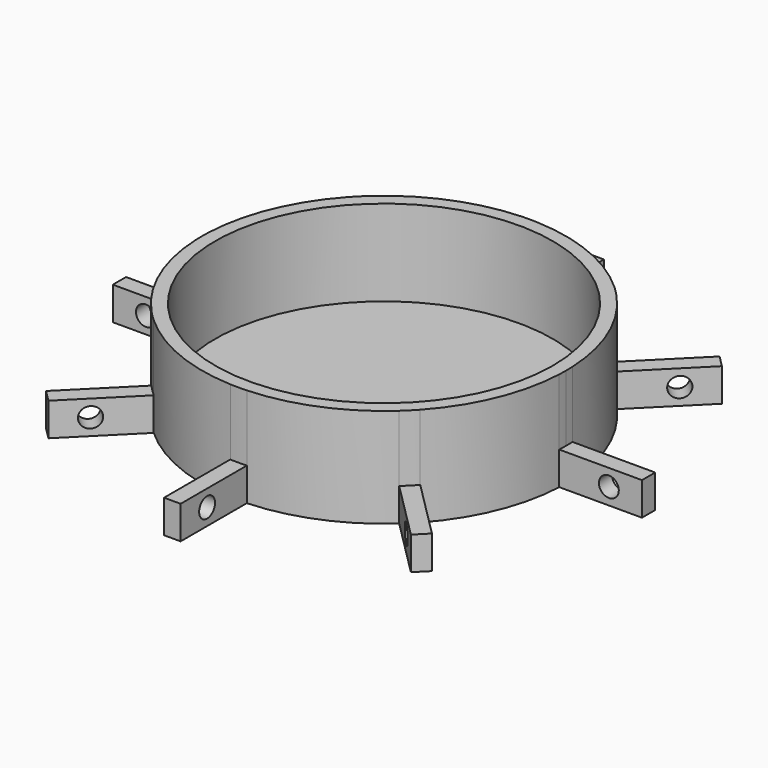
from build123d import *

# Parameters (mm, degrees)
F1_DEPTH  = 15
F2_R      = 25.5
F3_DEPTH  = 13
F4_DEPTH  = 5
F6_DEPTH  = 25
F8_DEPTH  = 25
F10_DEPTH = 25
F12_DEPTH = 25
F14_DEPTH = 25
F16_DEPTH = 25
F18_DEPTH = 25
F20_DEPTH = 25


with BuildPart() as f1:
    # F0 (on Top) → F1 (new body)
    with BuildSketch(Plane.XY):
        with BuildLine():
            ThreePointArc((27.4715762198, -1.25), (27.4928931366, -0.6251615614), (27.5, 0))
            ThreePointArc((27.5, 0), (27.4928931366, 0.6251615614), (27.4715762198, 1.25))
            ThreePointArc((27.4715762198, 1.25), (25.4066871441, 10.52379439), (20.3092213114, 18.5414543584))
            ThreePointArc((20.3092213114, 18.5414543584), (19.4454364826, 19.4454364826), (18.5414543584, 20.3092213114))
            ThreePointArc((18.5414543584, 20.3092213114), (10.52379439, 25.4066871441), (1.25, 27.4715762198))
            ThreePointArc((1.25, 27.4715762198), (0, 27.5), (-1.25, 27.4715762198))
            ThreePointArc((-1.25, 27.4715762198), (-10.52379439, 25.4066871441), (-18.5414543584, 20.3092213114))
            ThreePointArc((-18.5414543584, 20.3092213114), (-19.4454364826, 19.4454364826), (-20.3092213114, 18.5414543584))
            ThreePointArc((-20.3092213114, 18.5414543584), (-25.4066871441, 10.52379439), (-27.4715762198, 1.25))
            ThreePointArc((-27.4715762198, 1.25), (-27.5, 0), (-27.4715762198, -1.25))
            ThreePointArc((-27.4715762198, -1.25), (-25.4066871441, -10.52379439), (-20.3092213114, -18.5414543584))
            ThreePointArc((-20.3092213114, -18.5414543584), (-19.4454364826, -19.4454364826), (-18.5414543584, -20.3092213114))
            ThreePointArc((-18.5414543584, -20.3092213114), (-10.52379439, -25.4066871441), (-1.25, -27.4715762198))
            ThreePointArc((-1.25, -27.4715762198), (0, -27.5), (1.25, -27.4715762198))
            ThreePointArc((1.25, -27.4715762198), (10.52379439, -25.4066871441), (18.5414543584, -20.3092213114))
            ThreePointArc((18.5414543584, -20.3092213114), (19.4454364826, -19.4454364826), (20.3092213114, -18.5414543584))
            ThreePointArc((20.3092213114, -18.5414543584), (25.4066871441, -10.52379439), (27.4715762198, -1.25))
        make_face()
    extrude(amount=F1_DEPTH)

    # F2 (on face) → F3 (cut)
    with BuildSketch(Plane.XY.offset(15)):
        Circle(F2_R)
    extrude(amount=-F3_DEPTH, mode=Mode.SUBTRACT)

    # F0 (on Top) → F4 (join)
    with BuildSketch(Plane.XY):
        with BuildLine():
            ThreePointArc((-1.25, 27.4715762198), (0, 27.5), (1.25, 27.4715762198))
            Line((1.25, 27.4715762198), (1.25, 39.9715762198))
            Line((1.25, 39.9715762198), (-1.25, 39.9715762198))
            Line((-1.25, 39.9715762198), (-1.25, 27.4715762198))
        make_face()
        with BuildLine():
            ThreePointArc((-20.3092213114, 18.5414543584), (-19.4454364826, 19.4454364826), (-18.5414543584, 20.3092213114))
            Line((-18.5414543584, 20.3092213114), (-27.3802891232, 29.1480560762))
            Line((-27.3802891232, 29.1480560762), (-29.1480560762, 27.3802891232))
            Line((-29.1480560762, 27.3802891232), (-20.3092213114, 18.5414543584))
        make_face()
        with BuildLine():
            ThreePointArc((-27.4715762198, -1.25), (-27.5, 0), (-27.4715762198, 1.25))
            Line((-27.4715762198, 1.25), (-39.9715762198, 1.25))
            Line((-39.9715762198, 1.25), (-39.9715762198, -1.25))
            Line((-39.9715762198, -1.25), (-27.4715762198, -1.25))
        make_face()
        with BuildLine():
            Line((-27.3802891232, -29.1480560762), (-18.5414543584, -20.3092213114))
            ThreePointArc((-18.5414543584, -20.3092213114), (-19.4454364826, -19.4454364826), (-20.3092213114, -18.5414543584))
            Line((-20.3092213114, -18.5414543584), (-29.1480560762, -27.3802891232))
            Line((-29.1480560762, -27.3802891232), (-27.3802891232, -29.1480560762))
        make_face()
        with BuildLine():
            Line((1.25, -39.9715762198), (1.25, -27.4715762198))
            ThreePointArc((1.25, -27.4715762198), (0, -27.5), (-1.25, -27.4715762198))
            Line((-1.25, -27.4715762198), (-1.25, -39.9715762198))
            Line((-1.25, -39.9715762198), (1.25, -39.9715762198))
        make_face()
        with BuildLine():
            Line((29.1480560762, -27.3802891232), (20.3092213114, -18.5414543584))
            ThreePointArc((20.3092213114, -18.5414543584), (19.4454364826, -19.4454364826), (18.5414543584, -20.3092213114))
            Line((18.5414543584, -20.3092213114), (27.3802891232, -29.1480560762))
            Line((27.3802891232, -29.1480560762), (29.1480560762, -27.3802891232))
        make_face()
        with BuildLine():
            ThreePointArc((27.4715762198, 1.25), (27.4928931366, 0.6251615614), (27.5, 0))
            ThreePointArc((27.5, 0), (27.4928931366, -0.6251615614), (27.4715762198, -1.25))
            Line((27.4715762198, -1.25), (39.9715762198, -1.25))
            Line((39.9715762198, -1.25), (39.9715762198, 1.25))
            Line((39.9715762198, 1.25), (27.4715762198, 1.25))
        make_face()
        with BuildLine():
            ThreePointArc((18.5414543584, 20.3092213114), (19.4454364826, 19.4454364826), (20.3092213114, 18.5414543584))
            Line((20.3092213114, 18.5414543584), (29.1480560762, 27.3802891232))
            Line((29.1480560762, 27.3802891232), (27.3802891232, 29.1480560762))
            Line((27.3802891232, 29.1480560762), (18.5414543584, 20.3092213114))
        make_face()
    extrude(amount=F4_DEPTH)

    # F5 (on face) → F6 (cut)
    with BuildSketch(Plane.YZ.offset(1.25)):
        with BuildLine():
            ThreePointArc((-33.4715762198, 2.5), (-34.9715762198, 4), (-36.4715762198, 2.5))
            ThreePointArc((-36.4715762198, 2.5), (-34.9715762198, 1), (-33.4715762198, 2.5))
        make_face()
    extrude(amount=-F6_DEPTH, mode=Mode.SUBTRACT)

    # F7 (on face) → F8 (cut)
    with BuildSketch(Plane(origin=(0.8838834765, -0.8838834765, 0), x_dir=(0.7071067812, 0.7071067812, 0), z_dir=(0.7071067812, -0.7071067812, 0))):
        with BuildLine():
            ThreePointArc((-33.4715762198, 2.5), (-34.9715762198, 4), (-36.4715762198, 2.5))
            ThreePointArc((-36.4715762198, 2.5), (-34.9715762198, 1), (-33.4715762198, 2.5))
        make_face()
    extrude(amount=-F8_DEPTH, mode=Mode.SUBTRACT)

    # F9 (on face) → F10 (cut)
    with BuildSketch(Plane.XZ.offset(1.25)):
        with BuildLine():
            ThreePointArc((-33.4715762198, 2.5), (-34.9715762198, 4), (-36.4715762198, 2.5))
            ThreePointArc((-36.4715762198, 2.5), (-34.9715762198, 1), (-33.4715762198, 2.5))
        make_face()
    extrude(amount=-F10_DEPTH, mode=Mode.SUBTRACT)

    # F11 (on face) → F12 (cut)
    with BuildSketch(Plane(origin=(-0.8838834765, -0.8838834765, 0), x_dir=(0.7071067812, -0.7071067812, 0), z_dir=(-0.7071067812, -0.7071067812, 0))):
        with BuildLine():
            ThreePointArc((-33.4715762198, 2.5), (-34.9715762198, 4), (-36.4715762198, 2.5))
            ThreePointArc((-36.4715762198, 2.5), (-34.9715762198, 1), (-33.4715762198, 2.5))
        make_face()
    extrude(amount=-F12_DEPTH, mode=Mode.SUBTRACT)

    # F13 (on face) → F14 (cut)
    with BuildSketch(Plane(origin=(-1.25, 0, 0), x_dir=(0, -1, 0), z_dir=(-1, 0, 0))):
        with BuildLine():
            ThreePointArc((-33.4715762198, 2.5), (-34.9715762198, 4), (-36.4715762198, 2.5))
            ThreePointArc((-36.4715762198, 2.5), (-34.9715762198, 1), (-33.4715762198, 2.5))
        make_face()
    extrude(amount=-F14_DEPTH, mode=Mode.SUBTRACT)

    # F15 (on face) → F16 (cut)
    with BuildSketch(Plane(origin=(-0.8838834765, 0.8838834765, 0), x_dir=(-0.7071067812, -0.7071067812, 0), z_dir=(-0.7071067812, 0.7071067812, 0))):
        with BuildLine():
            ThreePointArc((-33.4715762198, 2.5), (-34.9715762198, 4), (-36.4715762198, 2.5))
            ThreePointArc((-36.4715762198, 2.5), (-34.9715762198, 1), (-33.4715762198, 2.5))
        make_face()
    extrude(amount=-F16_DEPTH, mode=Mode.SUBTRACT)

    # F17 (on face) → F18 (cut)
    with BuildSketch(Plane(origin=(0, 1.25, 0), x_dir=(-1, 0, 0), z_dir=(0, 1, 0))):
        with BuildLine():
            ThreePointArc((-33.4715762198, 2.5), (-34.9715762198, 4), (-36.4715762198, 2.5))
            ThreePointArc((-36.4715762198, 2.5), (-34.9715762198, 1), (-33.4715762198, 2.5))
        make_face()
    extrude(amount=-F18_DEPTH, mode=Mode.SUBTRACT)

    # F19 (on face) → F20 (cut)
    with BuildSketch(Plane(origin=(0.8838834765, 0.8838834765, 0), x_dir=(-0.7071067812, 0.7071067812, 0), z_dir=(0.7071067812, 0.7071067812, 0))):
        with BuildLine():
            ThreePointArc((-33.4715762198, 2.5), (-34.9715762198, 4), (-36.4715762198, 2.5))
            ThreePointArc((-36.4715762198, 2.5), (-34.9715762198, 1), (-33.4715762198, 2.5))
        make_face()
    extrude(amount=-F20_DEPTH, mode=Mode.SUBTRACT)


solid = f1.part
